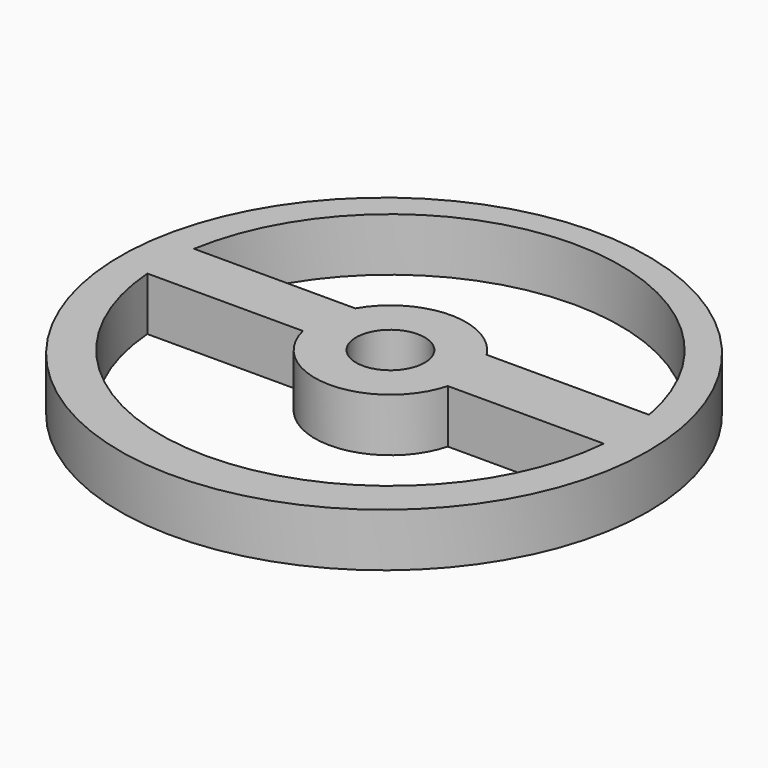
from build123d import *

# Parameters (mm, degrees)
F0_R     = 93.0402692982
F0_R_2   = 20.2691960741
F0_R_3   = 12.0935741479
F1_DEPTH = 18.796


with BuildPart() as f1:
    # F0 (on Top) → F1 (new body)
    with BuildSketch(Plane.XY):
        with Locations((0, -2.7915611863)):
            Circle(F0_R)
        with BuildLine():
            ThreePointArc((-79.8869530557, 13.3503982046), (-0.497116202, 80.9932792041), (79.7170577495, 14.3300071359))
            ThreePointArc((79.7170577495, 14.3300071359), (80.674735607, 7.1934300229), (80.9948047763, 0))
            ThreePointArc((80.9948047763, 0), (80.9212005693, -3.4522020762), (80.7005217242, -6.8981297599))
            ThreePointArc((80.7005217242, -6.8981297599), (-0.3608473211, -80.9940009504), (-80.7587824796, -6.1787905904))
            ThreePointArc((-80.7587824796, -6.1787905904), (-80.9142162427, 3.6122030091), (-79.8869530557, 13.3503982046))
        make_face(mode=Mode.SUBTRACT)
        with BuildLine():
            ThreePointArc((25.7351095282, -6.8981297599), (26.4154818423, -3.4788468851), (26.6435743963, 0))
            ThreePointArc((26.6435743963, 0), (25.576764867, 7.4638566138), (22.461766451, 14.3300071359))
            ThreePointArc((22.461766451, 14.3300071359), (-0.5732574504, 26.6374066401), (-23.0574700345, 13.3503982046))
            ThreePointArc((-23.0574700345, 13.3503982046), (-26.362426228, 3.8603808085), (-25.9172259984, -6.1787905904))
            ThreePointArc((-25.9172259984, -6.1787905904), (-0.371017267, -26.6409910251), (25.7351095282, -6.8981297599))
        make_face()
        Circle(F0_R_2, mode=Mode.SUBTRACT)
        Circle(F0_R_2)
        Circle(F0_R_3, mode=Mode.SUBTRACT)
        with BuildLine():
            ThreePointArc((22.461766451, 14.3300071359), (25.576764867, 7.4638566138), (26.6435743963, 0))
            ThreePointArc((26.6435743963, 0), (26.4154818423, -3.4788468851), (25.7351095282, -6.8981297599))
            Line((25.7351095282, -6.8981297599), (80.7005217242, -6.8981297599))
            ThreePointArc((80.7005217242, -6.8981297599), (80.9212005693, -3.4522020762), (80.9948047763, 0))
            ThreePointArc((80.9948047763, 0), (80.674735607, 7.1934300229), (79.7170577495, 14.3300071359))
            Line((79.7170577495, 14.3300071359), (22.461766451, 14.3300071359))
        make_face()
        with BuildLine():
            ThreePointArc((-25.9172259984, -6.1787905904), (-26.362426228, 3.8603808085), (-23.0574700345, 13.3503982046))
            Line((-23.0574700345, 13.3503982046), (-79.8869530557, 13.3503982046))
            ThreePointArc((-79.8869530557, 13.3503982046), (-80.9142162427, 3.6122030091), (-80.7587824796, -6.1787905904))
            Line((-80.7587824796, -6.1787905904), (-25.9172259984, -6.1787905904))
        make_face()
    extrude(amount=F1_DEPTH)


solid = f1.part
